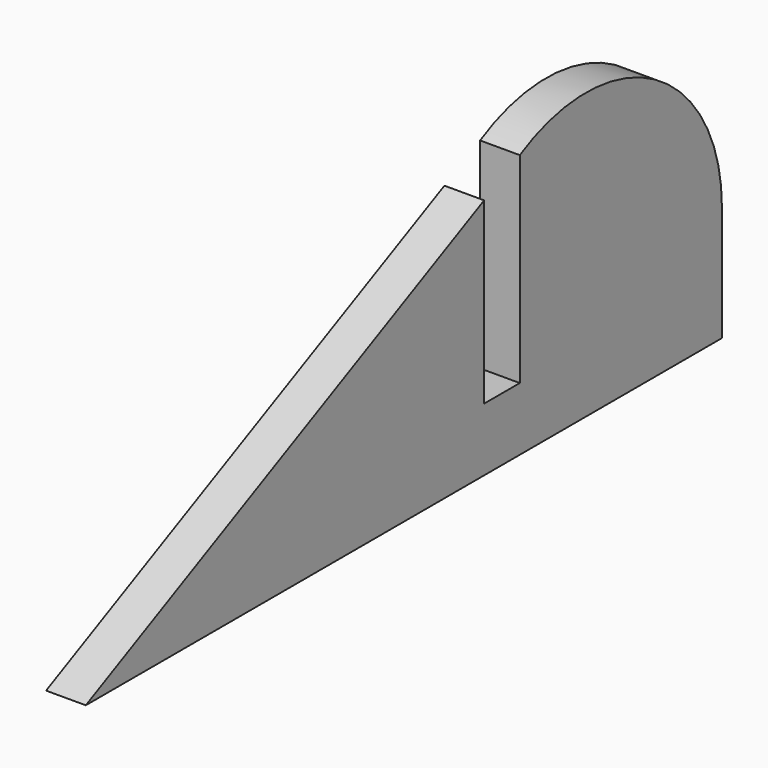
from build123d import *

# Parameters (mm, degrees)
F1_DEPTH = 3


with BuildPart() as f1:
    # F0 (on Right) → F1 (new body)
    with BuildSketch(Plane.YZ):
        with BuildLine():
            Line((-5.053473, -29.057488), (55.02674, -29.057488))
            Line((55.02674, -29.057488), (55.02674, -20.354279))
            ThreePointArc((55.02674, -20.354279), (48.692747, -9.279821), (35.93583, -9.124332))
            Line((35.93583, -9.124332), (35.93583, -24.28476))
            Line((35.93583, -24.28476), (32.566845, -24.28476))
            Line((32.566845, -24.28476), (32.566845, -10.762674))
            Line((32.566845, -10.762674), (-5.053473, -29.057488))
        make_face()
    extrude(amount=F1_DEPTH)


solid = f1.part
